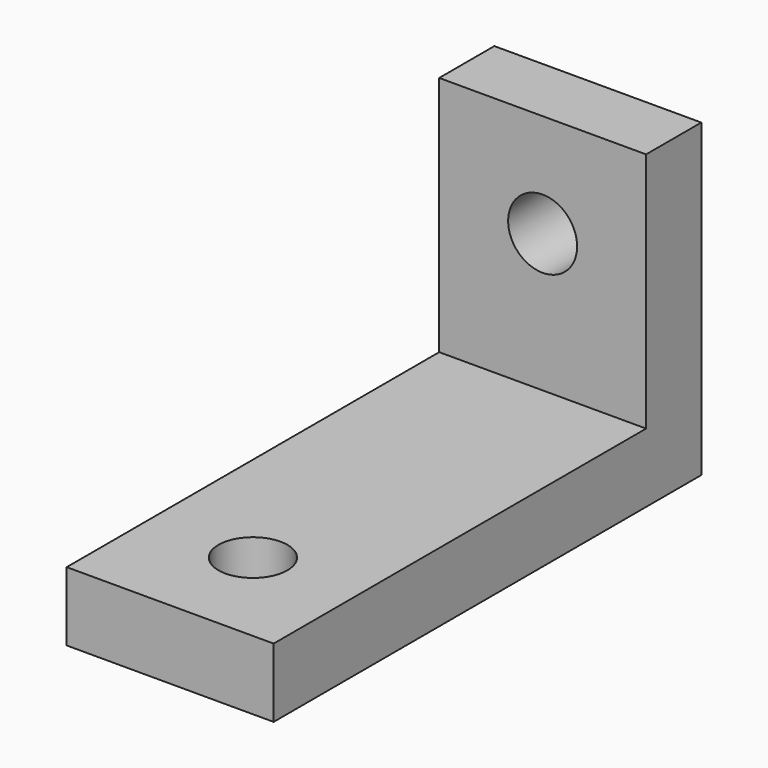
from build123d import *

# Parameters (mm, degrees)
F0_W     = 6
F0_H     = 9
F0_R     = 1
F1_DEPTH = 2
F2_W     = 6
F2_H     = 2
F3_DEPTH = 13.5
F4_R     = 1
F5_DEPTH = 25


with BuildPart() as f1:
    # F0 (on Front) → F1 (new body)
    with BuildSketch(Plane.XZ):
        Rectangle(F0_W, F0_H)
        with Locations((0, 1.5)):
            Circle(F0_R, mode=Mode.SUBTRACT)
    extrude(amount=F1_DEPTH)

    # F2 (on face) → F3 (join)
    with BuildSketch(Plane.XZ.offset(2)):
        with Locations((0, -3.5)):
            Rectangle(F2_W, F2_H)
    extrude(amount=F3_DEPTH)

    # F4 (on face) → F5 (cut)
    with BuildSketch(Plane.XY.offset(-2.5)):
        with Locations((0, -12.5)):
            Circle(F4_R)
    extrude(amount=-F5_DEPTH, mode=Mode.SUBTRACT)


solid = f1.part
